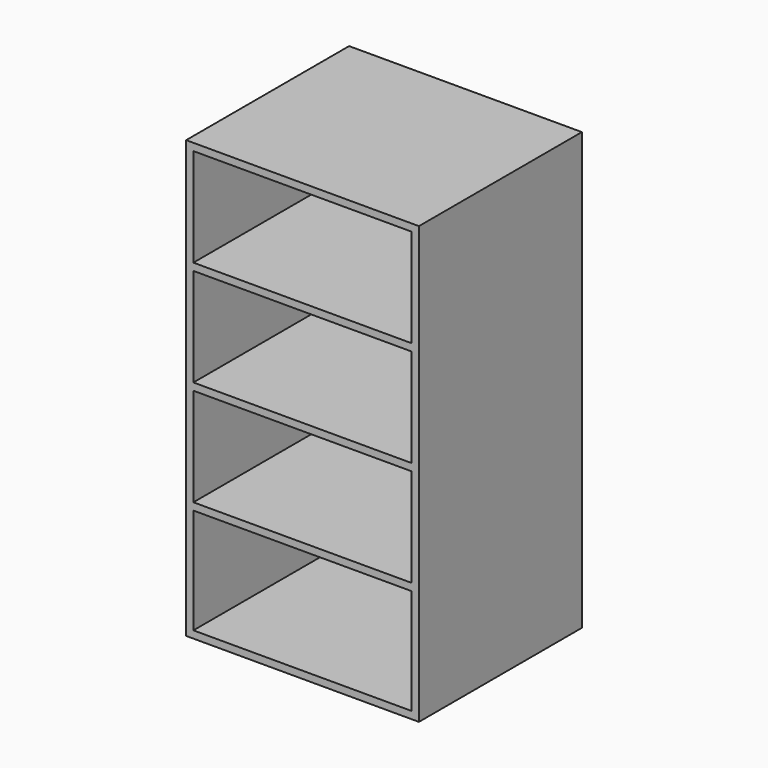
from build123d import *

# Parameters (mm, degrees)
F0_W     = 406.4
F0_H     = 762
F1_DEPTH = 355.6
F2_T     = -12.7
F3_W     = 381
F3_H     = 12.7
F4_DEPTH = 342.9


with BuildPart() as f1:
    # F0 (on Front) → F1 (new body)
    with BuildSketch(Plane.XZ):
        Rectangle(F0_W, F0_H)
    extrude(amount=F1_DEPTH)

    # F2
    f2_openings = [f1.faces().sort_by_distance(p)[0] for p in [
        (0, -355.6, 0),
    ]]
    offset(amount=F2_T, openings=f2_openings)

    # F3 (on face) → F4 (join)
    with BuildSketch(Plane.XZ.offset(12.7)):
        with Locations((0, 190.5)):
            Rectangle(F3_W, F3_H)
        with Locations((0, 6.35)):
            Rectangle(F3_W, F3_H)
        with Locations((0, -177.8)):
            Rectangle(F3_W, F3_H)
    extrude(amount=F4_DEPTH)


solid = f1.part
